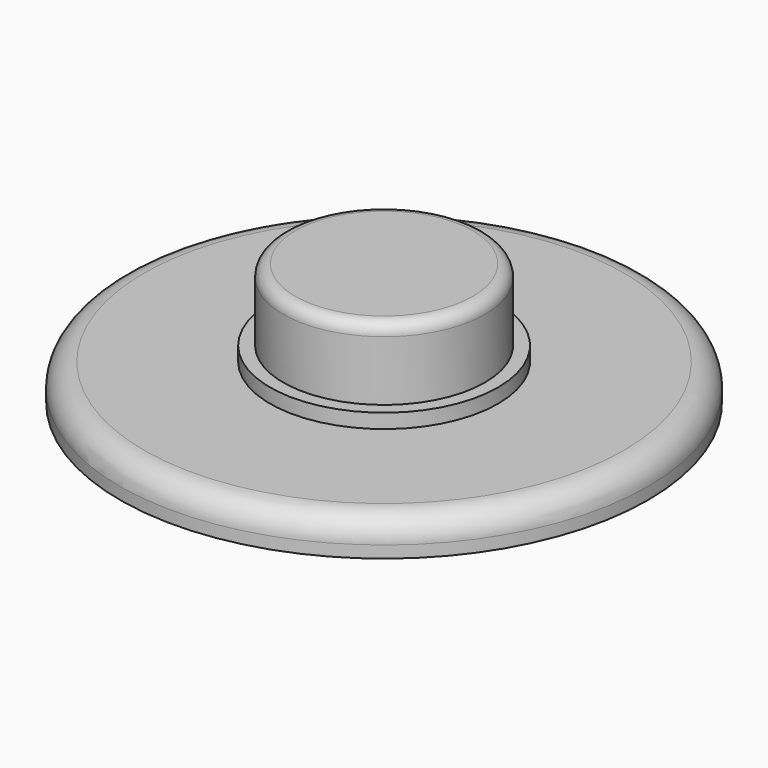
from build123d import *

# Parameters (mm, degrees)
F0_R     = 11
F0_R_2   = 4.75
F0_R_3   = 4.2
F1_DEPTH = 1.5
F2_DEPTH = 3.6
F3_R     = 1
F4_R     = 0.5
F5_DEPTH = 0.6


with BuildPart() as f1:
    # F0 (on Top) → F1 (new body)
    with BuildSketch(Plane.XY):
        Circle(F0_R)
        Circle(F0_R_2, mode=Mode.SUBTRACT)
        Circle(F0_R_2)
        Circle(F0_R_3, mode=Mode.SUBTRACT)
        Circle(F0_R_3)
    extrude(amount=-F1_DEPTH)

    # F0 (on Top) → F2 (join)
    with BuildSketch(Plane.XY):
        Circle(F0_R_3)
    extrude(amount=F2_DEPTH)

    # F3
    f3_edges = [f1.edges().sort_by_distance(p)[0] for p in [
        (-11, 0, 0),
    ]]
    fillet(f3_edges, radius=F3_R)

    # F4
    f4_edges = [f1.edges().sort_by_distance(p)[0] for p in [
        (-4.2, 0, 3.6),
    ]]
    fillet(f4_edges, radius=F4_R)

    # F0 (on Top) → F5 (join)
    with BuildSketch(Plane.XY):
        Circle(F0_R_2)
        Circle(F0_R_3, mode=Mode.SUBTRACT)
    extrude(amount=F5_DEPTH)


solid = f1.part
